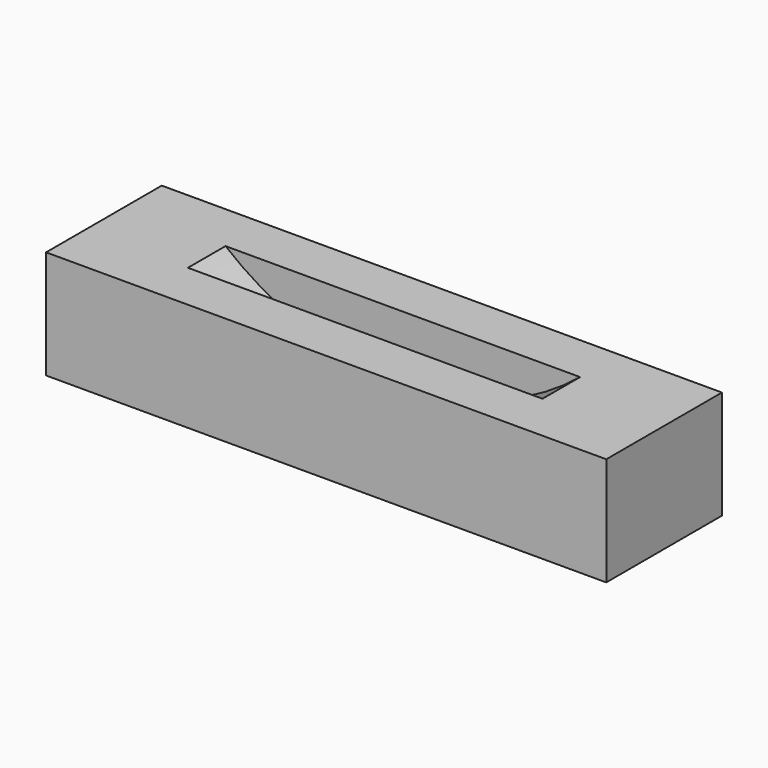
from build123d import *

# Parameters (mm, degrees)
F0_W     = 39.37
F0_H     = 10.16
F1_DEPTH = 7.62
F2_R     = 19.685
F3_DEPTH = 12.7
F4_DEPTH = 3.429
F5_W     = 39.37
F5_H     = 7.62
F6_DEPTH = 3.429


with BuildPart() as f1:
    # F0 (on Top) → F1 (new body)
    with BuildSketch(Plane.XY):
        Rectangle(F0_W, F0_H)
    extrude(amount=F1_DEPTH)

    # F2 (on face) → F3 (cut)
    with BuildSketch(Plane.XZ.offset(5.08)):
        with Locations((0, 22.86)):
            Circle(F2_R)
    extrude(amount=-F3_DEPTH, mode=Mode.SUBTRACT)

    # F2 (on face) → F4 (join)
    with BuildSketch(Plane.XZ.offset(5.08)):
        with BuildLine():
            Line((12.4595997127, 7.62), (-12.4595997127, 7.62))
            ThreePointArc((-12.4595997127, 7.62), (0, 3.175), (12.4595997127, 7.62))
        make_face()
    extrude(amount=-F4_DEPTH)

    # F5 (on face) → F6 (join)
    with BuildSketch(Plane(origin=(0, 5.08, 0), x_dir=(-1, 0, 0), z_dir=(0, 1, 0))):
        with Locations((0, 3.81)):
            Rectangle(F5_W, F5_H)
        with BuildLine():
            Line((-12.4595997127, 7.62), (-19.685, 7.62))
            Line((-19.685, 7.62), (-19.685, 0))
            Line((-19.685, 0), (19.685, 0))
            Line((19.685, 0), (19.685, 7.62))
            Line((19.685, 7.62), (12.4595997127, 7.62))
            ThreePointArc((12.4595997127, 7.62), (0, 3.175), (-12.4595997127, 7.62))
        make_face()
    extrude(amount=-F6_DEPTH)


solid = f1.part
